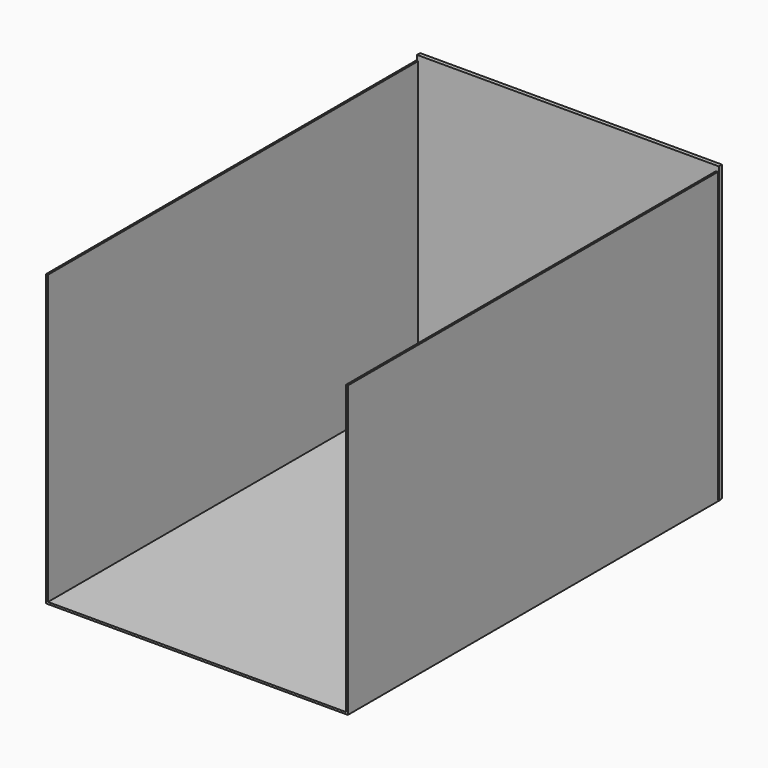
from build123d import *

# Parameters (mm, degrees)
F0_W     = 1955.8
F0_H     = 1905
F0_W_2   = 1930.4
F0_H_2   = 1879.6
F1_DEPTH = 3022.6
F2_W     = 1955.8
F2_H     = 1905
F3_DEPTH = 25.4
F4_DEPTH = 25.4


with BuildPart() as f1:
    # F0 (on Front) → F1 (new body)
    with BuildSketch(Plane.XZ):
        with Locations((929.4685886145, 910.7769945264)):
            Rectangle(F0_W, F0_H)
        with Locations((929.4685886145, 910.7769945264)):
            Rectangle(F0_W_2, F0_H_2, mode=Mode.SUBTRACT)
    extrude(amount=F1_DEPTH)

    # F2 (on Front) → F3 (join)
    with BuildSketch(Plane.XZ):
        with Locations((935.6444233, 919.4325165451)):
            Rectangle(F2_W, F2_H)
    extrude(amount=F3_DEPTH)

    # F4 (cut): a face of the model
    f4_faces = [f1.faces().sort_by_distance(p)[0] for p in [
        (929.4425031547, -1523.9595584052, 1863.2769945264),
    ]]
    extrude(f4_faces, amount=-F4_DEPTH, mode=Mode.SUBTRACT)


solid = f1.part
